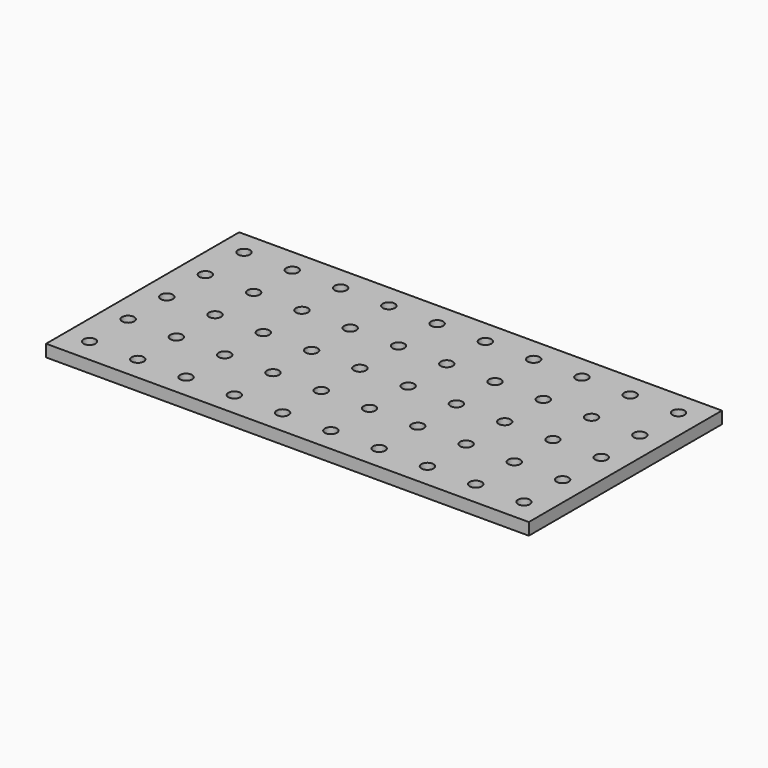
from build123d import *

# Parameters (mm, degrees)
F0_W     = 254
F0_H     = 127
F0_R     = 3.175
F1_DEPTH = 6.35


with BuildPart() as f1:
    # F0 (on Top) → F1 (new body)
    with BuildSketch(Plane.XY):
        with Locations((7.726722, 26.253474)):
            Rectangle(F0_W, F0_H)
        with Locations((-106.573278, -24.546526)):
            Circle(F0_R, mode=Mode.SUBTRACT)
        with Locations((-81.173278, -24.546526)):
            Circle(F0_R, mode=Mode.SUBTRACT)
        with Locations((-55.773278, -24.546526)):
            Circle(F0_R, mode=Mode.SUBTRACT)
        with Locations((-30.373278, -24.546526)):
            Circle(F0_R, mode=Mode.SUBTRACT)
        with Locations((-4.973278, -24.546526)):
            Circle(F0_R, mode=Mode.SUBTRACT)
        with Locations((-106.573278, 0.853474)):
            Circle(F0_R, mode=Mode.SUBTRACT)
        with Locations((-81.173278, 0.853474)):
            Circle(F0_R, mode=Mode.SUBTRACT)
        with Locations((-106.573278, 26.253474)):
            Circle(F0_R, mode=Mode.SUBTRACT)
        with Locations((-81.173278, 26.253474)):
            Circle(F0_R, mode=Mode.SUBTRACT)
        with Locations((-55.773278, 0.853474)):
            Circle(F0_R, mode=Mode.SUBTRACT)
        with Locations((-30.373278, 0.853474)):
            Circle(F0_R, mode=Mode.SUBTRACT)
        with Locations((-4.973278, 0.853474)):
            Circle(F0_R, mode=Mode.SUBTRACT)
        with Locations((-55.773278, 26.253474)):
            Circle(F0_R, mode=Mode.SUBTRACT)
        with Locations((-30.373278, 26.253474)):
            Circle(F0_R, mode=Mode.SUBTRACT)
        with Locations((-4.973278, 26.253474)):
            Circle(F0_R, mode=Mode.SUBTRACT)
        with Locations((20.426722, -24.546526)):
            Circle(F0_R, mode=Mode.SUBTRACT)
        with Locations((45.826722, -24.546526)):
            Circle(F0_R, mode=Mode.SUBTRACT)
        with Locations((71.226722, -24.546526)):
            Circle(F0_R, mode=Mode.SUBTRACT)
        with Locations((96.626722, -24.546526)):
            Circle(F0_R, mode=Mode.SUBTRACT)
        with Locations((122.026722, -24.546526)):
            Circle(F0_R, mode=Mode.SUBTRACT)
        with Locations((20.426722, 0.853474)):
            Circle(F0_R, mode=Mode.SUBTRACT)
        with Locations((45.826722, 0.853474)):
            Circle(F0_R, mode=Mode.SUBTRACT)
        with Locations((20.426722, 26.253474)):
            Circle(F0_R, mode=Mode.SUBTRACT)
        with Locations((45.826722, 26.253474)):
            Circle(F0_R, mode=Mode.SUBTRACT)
        with Locations((71.226722, 0.853474)):
            Circle(F0_R, mode=Mode.SUBTRACT)
        with Locations((96.626722, 0.853474)):
            Circle(F0_R, mode=Mode.SUBTRACT)
        with Locations((122.026722, 0.853474)):
            Circle(F0_R, mode=Mode.SUBTRACT)
        with Locations((71.226722, 26.253474)):
            Circle(F0_R, mode=Mode.SUBTRACT)
        with Locations((96.626722, 26.253474)):
            Circle(F0_R, mode=Mode.SUBTRACT)
        with Locations((122.026722, 26.253474)):
            Circle(F0_R, mode=Mode.SUBTRACT)
        with Locations((-106.573278, 51.653474)):
            Circle(F0_R, mode=Mode.SUBTRACT)
        with Locations((-81.173278, 51.653474)):
            Circle(F0_R, mode=Mode.SUBTRACT)
        with Locations((-55.773278, 51.653474)):
            Circle(F0_R, mode=Mode.SUBTRACT)
        with Locations((-30.373278, 51.653474)):
            Circle(F0_R, mode=Mode.SUBTRACT)
        with Locations((-4.973278, 51.653474)):
            Circle(F0_R, mode=Mode.SUBTRACT)
        with Locations((-106.573278, 77.053474)):
            Circle(F0_R, mode=Mode.SUBTRACT)
        with Locations((-81.173278, 77.053474)):
            Circle(F0_R, mode=Mode.SUBTRACT)
        with Locations((-55.773278, 77.053474)):
            Circle(F0_R, mode=Mode.SUBTRACT)
        with Locations((-30.373278, 77.053474)):
            Circle(F0_R, mode=Mode.SUBTRACT)
        with Locations((-4.973278, 77.053474)):
            Circle(F0_R, mode=Mode.SUBTRACT)
        with Locations((20.426722, 51.653474)):
            Circle(F0_R, mode=Mode.SUBTRACT)
        with Locations((45.826722, 51.653474)):
            Circle(F0_R, mode=Mode.SUBTRACT)
        with Locations((71.226722, 51.653474)):
            Circle(F0_R, mode=Mode.SUBTRACT)
        with Locations((96.626722, 51.653474)):
            Circle(F0_R, mode=Mode.SUBTRACT)
        with Locations((122.026722, 51.653474)):
            Circle(F0_R, mode=Mode.SUBTRACT)
        with Locations((20.426722, 77.053474)):
            Circle(F0_R, mode=Mode.SUBTRACT)
        with Locations((45.826722, 77.053474)):
            Circle(F0_R, mode=Mode.SUBTRACT)
        with Locations((71.226722, 77.053474)):
            Circle(F0_R, mode=Mode.SUBTRACT)
        with Locations((96.626722, 77.053474)):
            Circle(F0_R, mode=Mode.SUBTRACT)
        with Locations((122.026722, 77.053474)):
            Circle(F0_R, mode=Mode.SUBTRACT)
    extrude(amount=F1_DEPTH)


solid = f1.part
